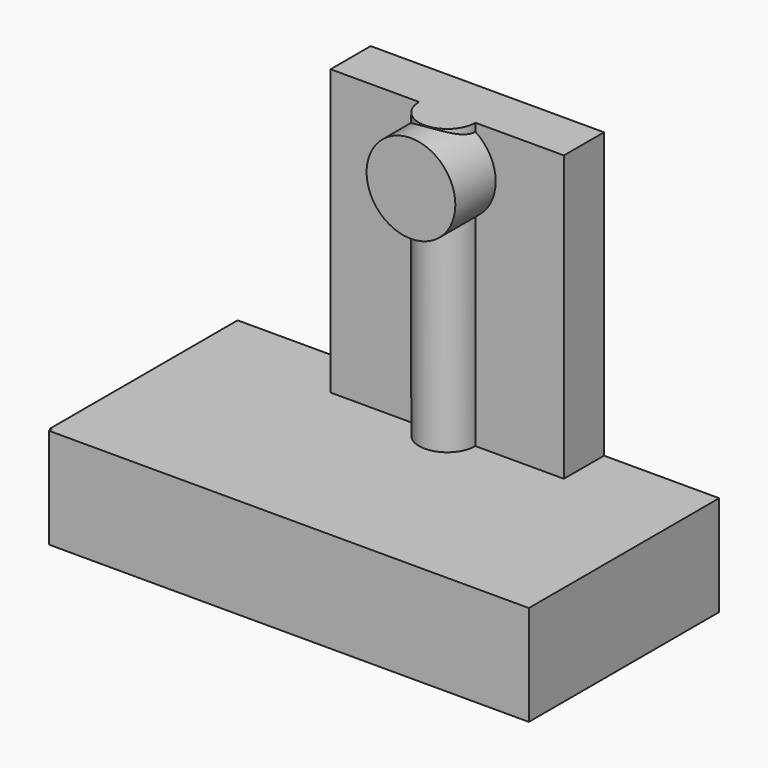
from build123d import *

# Parameters (mm, degrees)
F0_W      = 15.8
F0_H      = 7.83
F1_DEPTH  = 3.3
F3_DEPTH  = 9.37
F4_R      = 1.46
F5_DEPTH  = 3.31
F6_W      = 12.78
F6_H      = 4.59
F7_DEPTH  = 25
F8_W      = 15.7957389019
F8_H      = 7.7149206772
F9_DEPTH  = 2
F10_R     = 1.57
F10_R_2   = 0.72
F11_DEPTH = 3


with BuildPart() as f1:
    # F0 (on Top) → F1 (new body)
    with BuildSketch(Plane.XY):
        with Locations((-0.7034245188, -3.915)):
            Rectangle(F0_W, F0_H)
    extrude(amount=-F1_DEPTH)

    # F2 (on Top) → F3 (join)
    with BuildSketch(Plane.XY):
        with BuildLine():
            Line((3.4065754812, 0), (-4.2734245188, 0))
            Line((-4.2734245188, 0), (-4.2734245188, -1.65))
            Line((-4.2734245188, -1.65), (-1.3598001921, -1.65))
            ThreePointArc((-1.3598001921, -1.65), (-0.4334245188, -0.7236243267), (0.4929511545, -1.65))
            Line((0.4929511545, -1.65), (3.4065754812, -1.65))
            Line((3.4065754812, -1.65), (3.4065754812, 0))
        make_face()
        with BuildLine():
            ThreePointArc((0.4929511545, -1.65), (-0.4334245188, -0.7236243267), (-1.3598001921, -1.65))
            Line((-1.3598001921, -1.65), (0.4929511545, -1.65))
        make_face()
        with BuildLine():
            Line((0.4929511545, -1.65), (-1.3598001921, -1.65))
            ThreePointArc((-1.3598001921, -1.65), (-0.4334245188, -2.5763756733), (0.4929511545, -1.65))
        make_face()
    extrude(amount=F3_DEPTH)

    # F4 (on Front) → F5 (join)
    with BuildSketch(Plane.XZ):
        with Locations((-0.2993772502, 7.8826601838)):
            Circle(F4_R)
    extrude(amount=F5_DEPTH)

    # F6 (on Top) → F7 (cut)
    with BuildSketch(Plane.XY):
        with Locations((-0.7034245188, -3.915)):
            Rectangle(F6_W, F6_H)
    extrude(amount=-F7_DEPTH, mode=Mode.SUBTRACT)

    # F8 (on Top) → F9 (join)
    with BuildSketch(Plane.XY):
        with Locations((-0.7554732729, -3.8574603386)):
            Rectangle(F8_W, F8_H)
    extrude(amount=-F9_DEPTH)

    # F10 (on Top) → F11 (join)
    with BuildSketch(Plane.XY):
        with Locations((-0.4749980129, -3.7706719508)):
            Circle(F10_R)
        with Locations((-0.4749980129, -3.7706719508)):
            Circle(F10_R_2, mode=Mode.SUBTRACT)
    extrude(amount=-F11_DEPTH)


solid = f1.part
